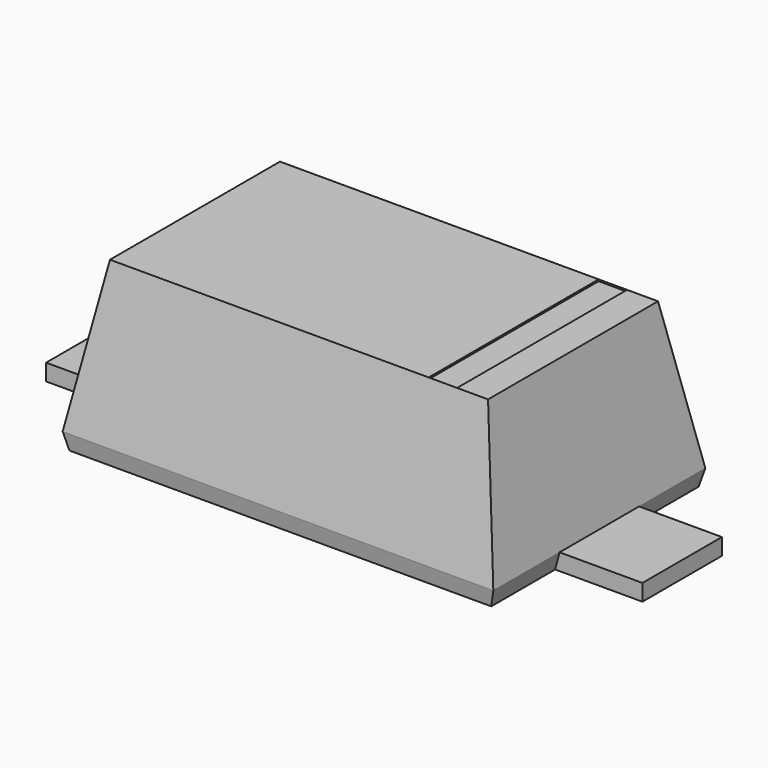
from build123d import *

# Parameters (mm, degrees)
F1_DEPTH      = 0.8
F3_DEPTH      = 1.301
F3_DEPTH_BACK = 1.301
F5_DEPTH      = 0.3
F6_W          = 0.1715559629
F6_H          = 1.2826114347
F7_DEPTH      = 0.01


with BuildPart() as f1:
    # F0 (on Front) → F1 (new body, symmetric)
    with BuildSketch(Plane.XZ):
        Polygon((-1.1413057174, 0.9), (-1.3, 0), (1.3, 0), (1.1413057174, 0.9), align=None)
        Polygon((1.3, 0), (-1.3, 0), (-1.2732050808, -0.1), (1.2732050808, -0.1), align=None)
    extrude(amount=F1_DEPTH, both=True)

    # F2 (on Right) → F3 (cut, two sides)
    with BuildSketch(Plane.YZ) as f3_sk:
        Polygon((-0.6413057174, 0.9), (-0.8, 0.9), (-0.8, 0), align=None)
        Polygon((0.8, 0.9), (0.6413057174, 0.9), (0.8, 0), align=None)
        Polygon((-0.7823673019, -0.1), (-0.8, 0), (-0.8, -0.1), align=None)
        Polygon((0.8, -0.1), (0.8, 0), (0.7823673019, -0.1), align=None)
    extrude(amount=-F3_DEPTH, mode=Mode.SUBTRACT)
    extrude(f3_sk.sketch, amount=F3_DEPTH_BACK, mode=Mode.SUBTRACT)

    # F6 (on face) → F7 (cut)
    with BuildSketch(Plane.XY.offset(0.9)):
        with Locations((0.8685019275, 0)):
            Rectangle(F6_W, F6_H)
    extrude(amount=-F7_DEPTH, mode=Mode.SUBTRACT)


with BuildPart() as f5:
    # F4 (on Front) → F5 (new body, symmetric)
    with BuildSketch(Plane.XZ):
        Polygon((1.8, 0), (1.3, 0), (1.2732050808, -0.1), (1.8, -0.1), align=None)
    extrude(amount=F5_DEPTH, both=True)


with BuildPart() as f5b:
    # F4 (on Front) → F5, piece 2 (new body, symmetric)
    with BuildSketch(Plane.XZ):
        Polygon((-1.2732050808, -0.1), (-1.3, 0), (-1.8, 0), (-1.8, -0.1), align=None)
    extrude(amount=F5_DEPTH, both=True)


solid = Compound([f1.part, f5.part, f5b.part])
